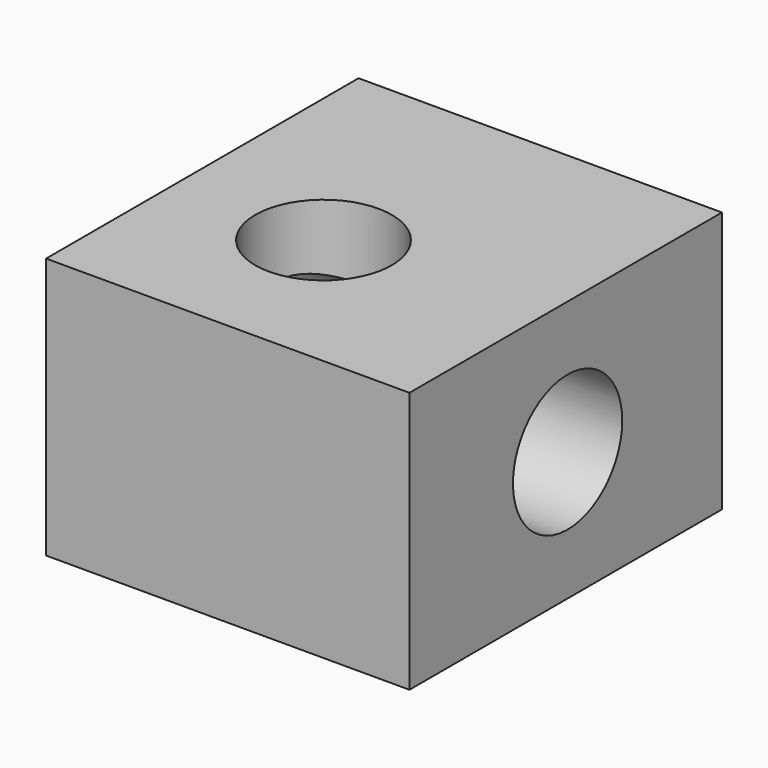
from build123d import *

# Parameters (mm, degrees)
F0_W     = 67.591384
F0_H     = 48.631672
F1_DEPTH = 72.644
F3_D     = 25.4
F5_D     = 25.4


with BuildPart() as f1:
    # F0 (on Front) → F1 (new body)
    with BuildSketch(Plane.XZ):
        with Locations((33.795692, 24.315836)):
            Rectangle(F0_W, F0_H)
    extrude(amount=F1_DEPTH)

    # F3 (through all)
    with Locations(Plane.XY.offset(48.631672)):
        with Locations((27.831206, -42.929504)):
            Hole(F3_D / 2)

    # F5 (through all)
    with Locations(Plane(origin=(0, 0, 0), x_dir=(0, -1, 0), z_dir=(-1, 0, 0))):
        with Locations((35.879802, 23.983832)):
            Hole(F5_D / 2)


solid = f1.part
